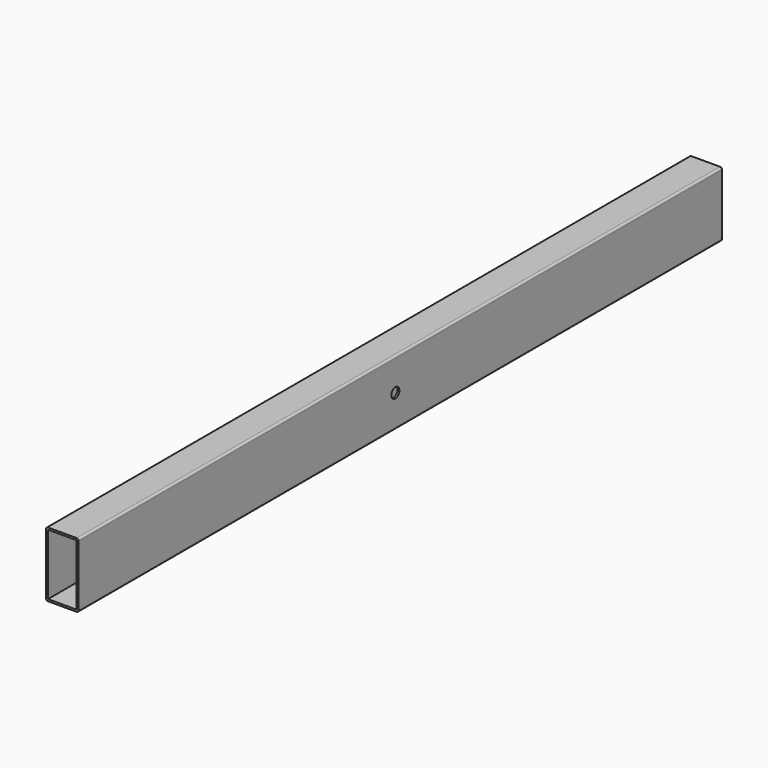
from build123d import *

# Parameters (mm, degrees)
F0_W     = 22.352
F0_H     = 47.752
F1_DEPTH = 628.65
F2_R     = 3.9751
F3_DEPTH = 25.401


with BuildPart() as f1:
    # F0 (on Front) → F1 (new body)
    with BuildSketch(Plane.XZ):
        with BuildLine():
            ThreePointArc((0, 1.524), (0.446369, 0.446369), (1.524, 0))
            Line((1.524, 0), (23.876, 0))
            ThreePointArc((23.876, 0), (24.953631, 0.446369), (25.4, 1.524))
            Line((25.4, 1.524), (25.4, 49.276))
            ThreePointArc((25.4, 49.276), (24.953631, 50.353631), (23.876, 50.8))
            Line((23.876, 50.8), (1.524, 50.8))
            ThreePointArc((1.524, 50.8), (0.446369, 50.353631), (0, 49.276))
            Line((0, 49.276), (0, 1.524))
        make_face()
        with Locations((12.7, 25.4)):
            Rectangle(F0_W, F0_H, mode=Mode.SUBTRACT)
    extrude(amount=F1_DEPTH)

    # F2 (on face) → F3 (cut, through all)
    with BuildSketch(Plane.YZ.offset(25.4)):
        with Locations((-319.0875, 25.4)):
            Circle(F2_R)
    extrude(amount=-F3_DEPTH, mode=Mode.SUBTRACT)


solid = f1.part
